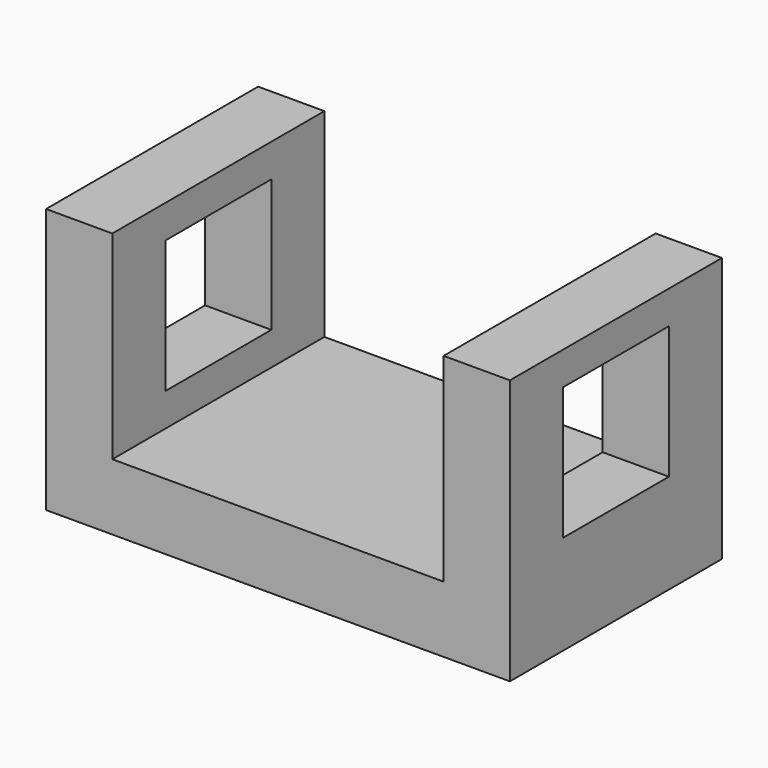
from build123d import *

# Parameters (mm, degrees)
F1_DEPTH = 50.8
F2_W     = 25.4
F2_H     = 25.4
F3_DEPTH = 88.901


with BuildPart() as f1:
    # F0 (on Front) → F1 (new body)
    with BuildSketch(Plane.XZ):
        Polygon((-29.747168, 27.1924), (-42.447168, 27.1924), (-42.447168, -23.6076), (46.452832, -23.6076), (46.452832, 27.1924), (33.752832, 27.1924), (33.752832, -10.9076), (-29.747168, -10.9076), align=None)
    extrude(amount=F1_DEPTH)

    # F2 (on face) → F3 (cut, through all)
    with BuildSketch(Plane.YZ.offset(46.452832)):
        with Locations((-25.4, 8.1424)):
            Rectangle(F2_W, F2_H)
    extrude(amount=-F3_DEPTH, mode=Mode.SUBTRACT)


solid = f1.part
